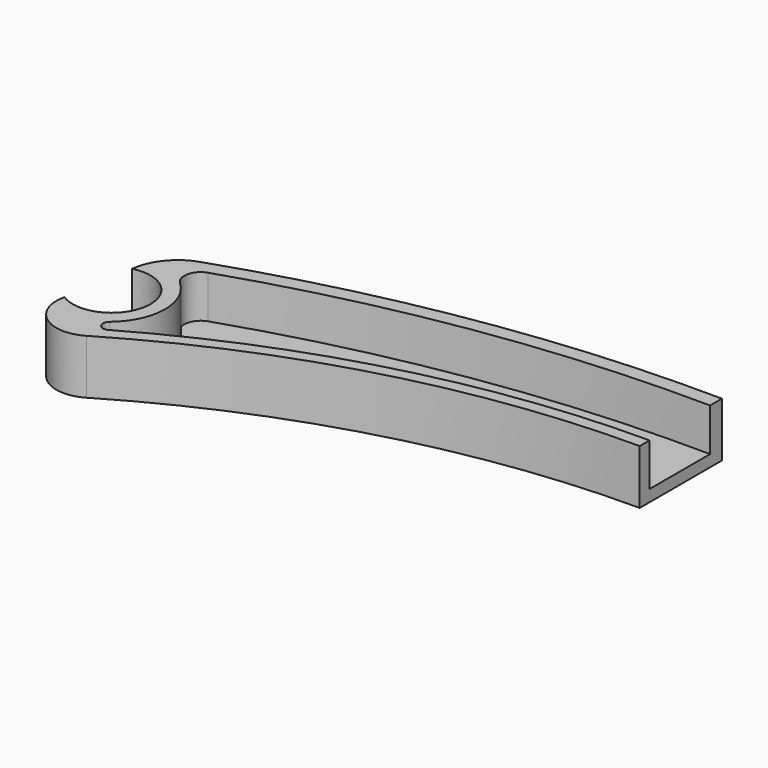
from build123d import *

# Parameters (mm, degrees)
PAD003_DEPTH = 3.5
POCKET_DEPTH = 5.5
SKETCH011_W  = 5
SKETCH011_H  = 7.2


with BuildPart() as obj1:
    # Sketch010 → Pad003 (new body, symmetric)
    with BuildSketch(Plane.XY):
        with BuildLine():
            ThreePointArc((59.498979, 20.271308), (30.157918, 27.585958), (0, 29.8))
            Line((0, 29.8), (0, 16.6))
            ThreePointArc((58.317055, 0.623642), (30.232941, 12.533656), (0, 16.6))
            ThreePointArc((58.317055, 0.623642), (63.354776, 0.781276), (65.351677, 5.409004))
            Line((63.7883, 15.177117), (65.351677, 5.409004))
            ThreePointArc((63.7883, 15.177117), (62.350118, 18.319069), (59.498979, 20.271308))
        make_face()
    extrude(amount=PAD003_DEPTH, both=True)

    # Sketch009 → Pocket (cut)
    with BuildSketch(Plane.XY.offset(3.5)):
        with BuildLine():
            Line((0, 27.898268), (0, 18.183007))
            ThreePointArc((57.375322, 3.010124), (29.674349, 14.327664), (0, 18.183007))
            ThreePointArc((57.375322, 3.010124), (58.546948, 3.277627), (58.382807, 4.46814))
            ThreePointArc((58.112759, 15.405314), (55.75963, 9.875292), (58.382807, 4.46814))
            ThreePointArc((58.112759, 15.405314), (58.750082, 17.397997), (57.35497, 18.957045))
            ThreePointArc((57.35497, 18.957045), (29.050369, 25.819583), (0, 27.898268))
        make_face()
    extrude(amount=-POCKET_DEPTH, mode=Mode.SUBTRACT)

    # Sketch011 (on Face2 of Pocket) → Groove (revolve, cut)
    with BuildSketch(Plane(origin=(62.588677, 10.017255, 0), x_dir=(-0.158038, 0.987433, 0), z_dir=(0.987433, 0.158038, 0))):
        with Locations((2.5, 0)):
            Rectangle(SKETCH011_W, SKETCH011_H)
    revolve(axis=Axis((62.588677, 10.017255, 0), (0, 0, 1)), mode=Mode.SUBTRACT)


with BuildPart() as part_mirroring:
    # Part__Mirroring: instance of obj1
    add(obj1.part.mirror(Plane(origin=(0, 0, 0), x_dir=(0, -1, 0), z_dir=(1, 0, 0))))


solid = part_mirroring.part
